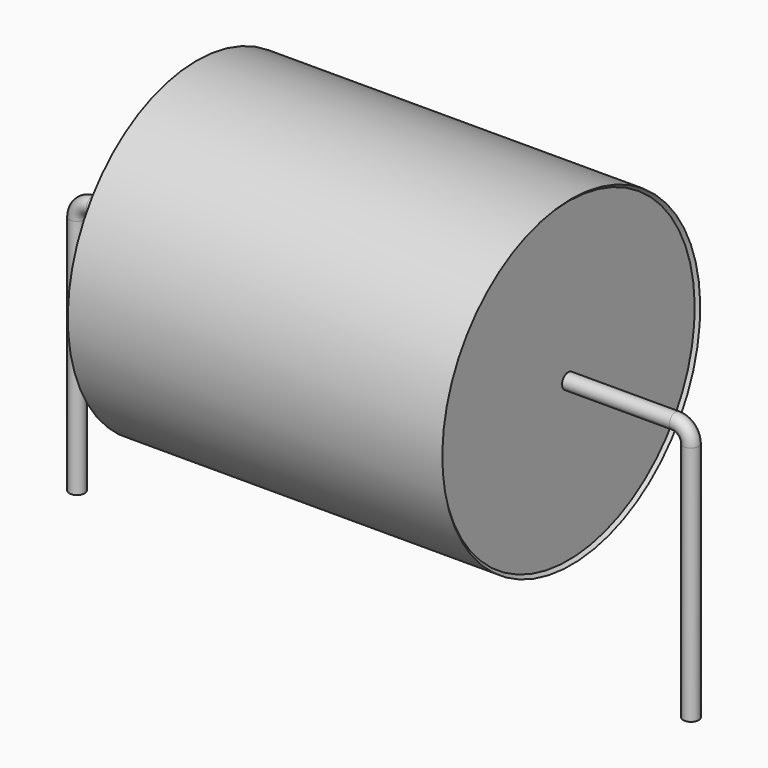
from build123d import *

# Parameters (mm, degrees)
SKETCH_R = 0.25


with BuildPart() as sweep_body:
    # Sweep: sweep along a path in Sketch001
    with BuildLine(Plane.XZ) as sweep_path:
        Line((0, -3), (0, 4.85))
        ThreePointArc((0, 4.85), (0.146443, 5.20355), (0.49999, 5.35))
        Line((0.49999, 5.35), (19.5, 5.35))
        ThreePointArc((19.5, 5.35), (19.853553, 5.203553), (20, 4.85))
        Line((20, 4.85), (20, -3))
    # Sketch → Sweep (sweep)
    with BuildSketch(Plane.XY.offset(-2)):
        Circle(SKETCH_R)
    sweep(path=sweep_path.line)


with BuildPart() as revolution:
    # Sketch002 → Revolution (revolve)
    with BuildSketch(Plane.XZ):
        Polygon((3.9, 10.6), (16.1, 10.6), (16, 10.5), (16, 5.35), (4, 5.35), (4, 10.5), align=None)
    revolve(axis=Axis((7.611803, 0, 5.35), (1, 0, 0)))


solid = Compound([sweep_body.part, revolution.part])
